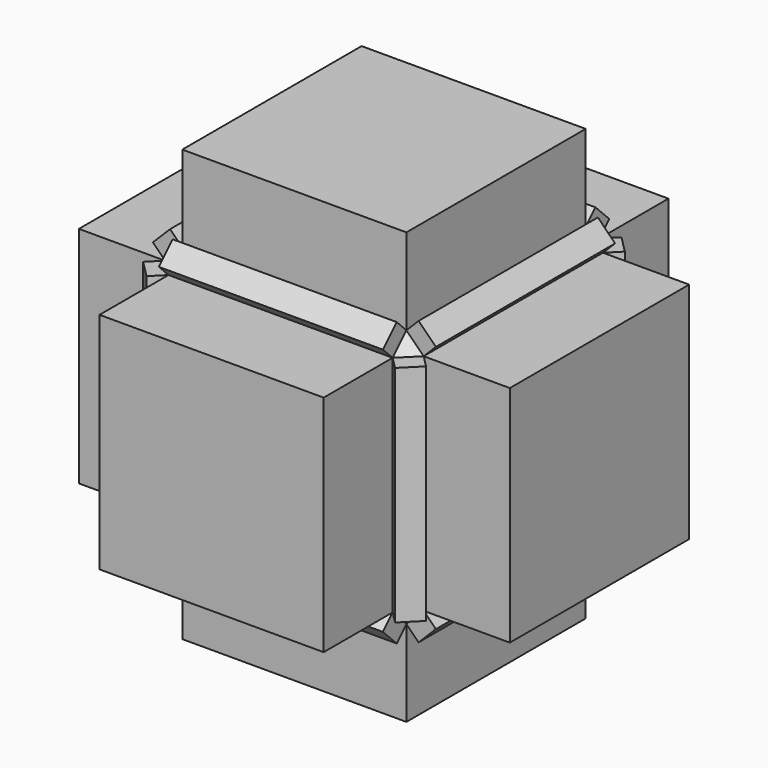
from build123d import *

# Parameters (mm, degrees)
F0_W      = 75
F0_H      = 75
F1_DEPTH  = 75
F2_SIZE   = 5
F3_DEPTH  = 5
F4_DEPTH  = 5
F5_DEPTH  = 5
F6_DEPTH  = 5
F7_DEPTH  = 5
F8_DEPTH  = 5
F9_DEPTH  = 5
F10_DEPTH = 5
F11_DEPTH = 5
F12_DEPTH = 5
F13_DEPTH = 5
F14_DEPTH = 5
F15_DEPTH = 25
F16_DEPTH = 25
F17_DEPTH = 25
F18_DEPTH = 25
F19_DEPTH = 25
F20_DEPTH = 25


with BuildPart() as f1:
    # F0 (on Top) → F1 (new body)
    with BuildSketch(Plane.XY):
        with Locations((-37.5, 37.5)):
            Rectangle(F0_W, F0_H)
    extrude(amount=F1_DEPTH)

    # F2
    f2_edges = [f1.edges().sort_by_distance(p)[0] for p in [
        (-75, 37.5, 75),
        (-37.5, 0, 75),
        (0, 37.5, 75),
        (-37.5, 75, 75),
        (0, 75, 37.5),
        (-75, 75, 37.5),
        (-37.5, 75, 0),
        (-75, 0, 37.5),
        (-75, 37.5, 0),
        (0, 37.5, 0),
        (0, 0, 37.5),
        (-37.5, 0, 0),
    ]]
    chamfer(f2_edges, length=F2_SIZE)

    # F3 (add): a face of the model
    f3_faces = [f1.faces().sort_by_distance(p)[0] for p in [
        (-72.5, 37.5, 72.5),
    ]]
    extrude(f3_faces, amount=F3_DEPTH)

    # F4 (add): a face of the model
    f4_faces = [f1.faces().sort_by_distance(p)[0] for p in [
        (-37.5, 72.5, 72.5),
    ]]
    extrude(f4_faces, amount=F4_DEPTH)

    # F5 (add): a face of the model
    f5_faces = [f1.faces().sort_by_distance(p)[0] for p in [
        (-2.5, 37.5, 72.5),
    ]]
    extrude(f5_faces, amount=F5_DEPTH)

    # F6 (add): a face of the model
    f6_faces = [f1.faces().sort_by_distance(p)[0] for p in [
        (-37.5, 2.5, 72.5),
    ]]
    extrude(f6_faces, amount=F6_DEPTH)

    # F7 (add): a face of the model
    f7_faces = [f1.faces().sort_by_distance(p)[0] for p in [
        (-2.5, 72.5, 37.5),
    ]]
    extrude(f7_faces, amount=F7_DEPTH)

    # F8 (add): a face of the model
    f8_faces = [f1.faces().sort_by_distance(p)[0] for p in [
        (-2.5, 37.5, 2.5),
    ]]
    extrude(f8_faces, amount=F8_DEPTH)

    # F9 (add): a face of the model
    f9_faces = [f1.faces().sort_by_distance(p)[0] for p in [
        (-2.5, 2.5, 37.5),
    ]]
    extrude(f9_faces, amount=F9_DEPTH)

    # F10 (add): a face of the model
    f10_faces = [f1.faces().sort_by_distance(p)[0] for p in [
        (-37.5, 72.5, 2.5),
    ]]
    extrude(f10_faces, amount=F10_DEPTH)

    # F11 (add): a face of the model
    f11_faces = [f1.faces().sort_by_distance(p)[0] for p in [
        (-37.5, 2.5, 2.5),
    ]]
    extrude(f11_faces, amount=F11_DEPTH)

    # F12 (add): a face of the model
    f12_faces = [f1.faces().sort_by_distance(p)[0] for p in [
        (-72.5, 72.5, 37.5),
    ]]
    extrude(f12_faces, amount=F12_DEPTH)

    # F13 (add): a face of the model
    f13_faces = [f1.faces().sort_by_distance(p)[0] for p in [
        (-72.5, 37.5, 2.5),
    ]]
    extrude(f13_faces, amount=F13_DEPTH)

    # F14 (add): a face of the model
    f14_faces = [f1.faces().sort_by_distance(p)[0] for p in [
        (-72.5, 2.5, 37.5),
    ]]
    extrude(f14_faces, amount=F14_DEPTH)

    # F15 (add): a face of the model
    f15_faces = [f1.faces().sort_by_distance(p)[0] for p in [
        (-75, 37.5, 37.5),
    ]]
    extrude(f15_faces, amount=F15_DEPTH)

    # F16 (add): a face of the model
    f16_faces = [f1.faces().sort_by_distance(p)[0] for p in [
        (-37.5, 37.5, 75),
    ]]
    extrude(f16_faces, amount=F16_DEPTH)

    # F17 (add): a face of the model
    f17_faces = [f1.faces().sort_by_distance(p)[0] for p in [
        (0, 37.5, 37.5),
    ]]
    extrude(f17_faces, amount=F17_DEPTH)

    # F18 (add): a face of the model
    f18_faces = [f1.faces().sort_by_distance(p)[0] for p in [
        (-37.5, 37.5, 0),
    ]]
    extrude(f18_faces, amount=F18_DEPTH)

    # F19 (add): a face of the model
    f19_faces = [f1.faces().sort_by_distance(p)[0] for p in [
        (-37.5, 0, 37.5),
    ]]
    extrude(f19_faces, amount=F19_DEPTH)

    # F20 (add): a face of the model
    f20_faces = [f1.faces().sort_by_distance(p)[0] for p in [
        (-37.5, 75, 37.5),
    ]]
    extrude(f20_faces, amount=F20_DEPTH)


solid = f1.part
